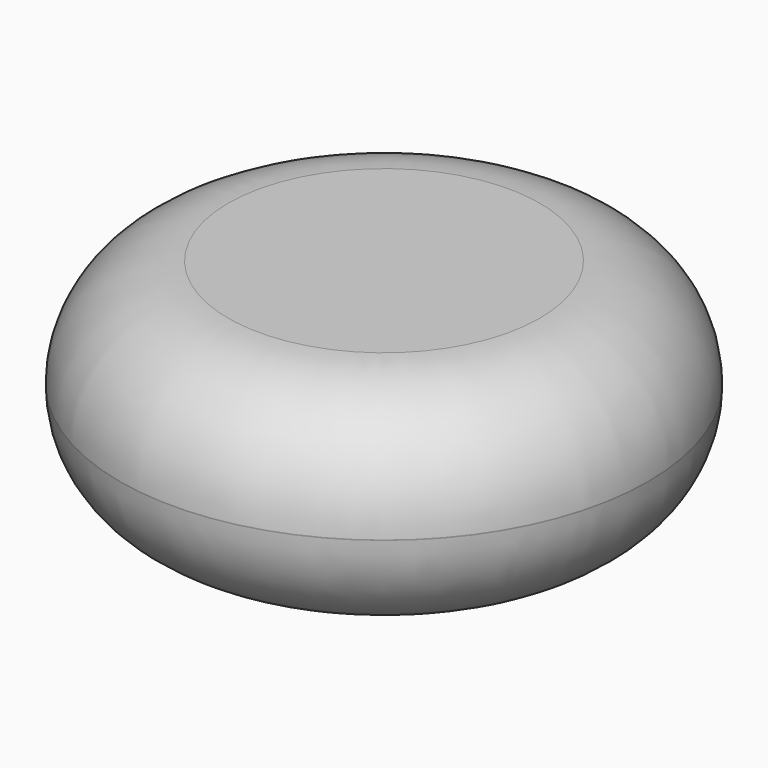
from build123d import *

# Parameters (mm, degrees)
F0_R     = 74.761682
F1_DEPTH = 61.468
F2_R     = 43.4135
F3_DEPTH = 51.054
F4_R     = 30.660512
F5_W     = 36.541538
F5_H     = 9.436814
F6_DEPTH = 47.498


with BuildPart() as f1:
    # F0 (on Top) → F1 (new body)
    with BuildSketch(Plane.XY):
        Circle(F0_R)
    extrude(amount=F1_DEPTH)

    # F2 (on Top) → F3 (cut)
    with BuildSketch(Plane.XY):
        Circle(F2_R)
    extrude(amount=F3_DEPTH, mode=Mode.SUBTRACT)

    # F4
    f4_edges = [f1.edges().sort_by_distance(p)[0] for p in [
        (-74.761682, 0, 0),
        (-74.761682, 0, 61.468),
    ]]
    fillet(f4_edges, radius=F4_R)

    # F5 (on Top) → F6 (cut)
    with BuildSketch(Plane.XY):
        with Locations((38.430351, -17.557447)):
            Rectangle(F5_W, F5_H)
    extrude(amount=F6_DEPTH, mode=Mode.SUBTRACT)


solid = f1.part
